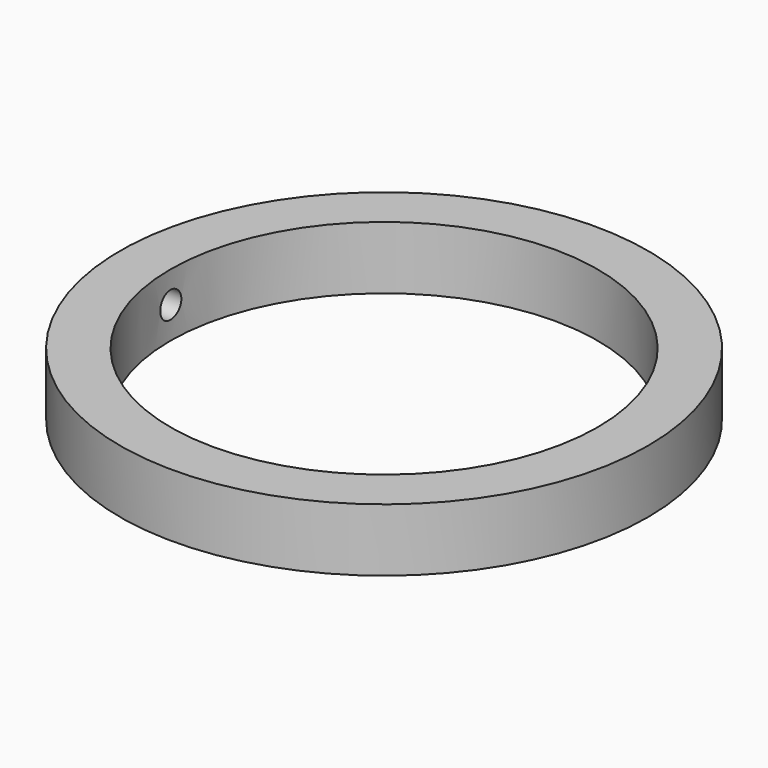
from build123d import *

# Parameters (mm, degrees)
SKETCH007_R      = 1.05
EXTRUDE008_DEPTH = 30
SKETCH003_R      = 21
SKETCH003_R_2    = 17
EXTRUDE003_DEPTH = 5


with BuildPart() as extrude008:
    # Sketch007 → Extrude008 (new body)
    with BuildSketch(Plane(origin=(-30.396078, 0, 0), x_dir=(0, -1, 0), z_dir=(-1, 0, 0))):
        with Locations((0, 27.512153)):
            Circle(SKETCH007_R)
    extrude(amount=-EXTRUDE008_DEPTH)


with BuildPart() as cut002:
    # Sketch003 (on Face321 of involutegear) → Extrude003 (new body)
    with BuildSketch(Plane(origin=(0, 0, 30), x_dir=(1, 0, 0), z_dir=(0, 0, -1))):
        Circle(SKETCH003_R)
        Circle(SKETCH003_R_2, mode=Mode.SUBTRACT)
    extrude(amount=EXTRUDE003_DEPTH)

    # Cut002: cut Extrude008
    add(extrude008.part, mode=Mode.SUBTRACT)


solid = cut002.part
